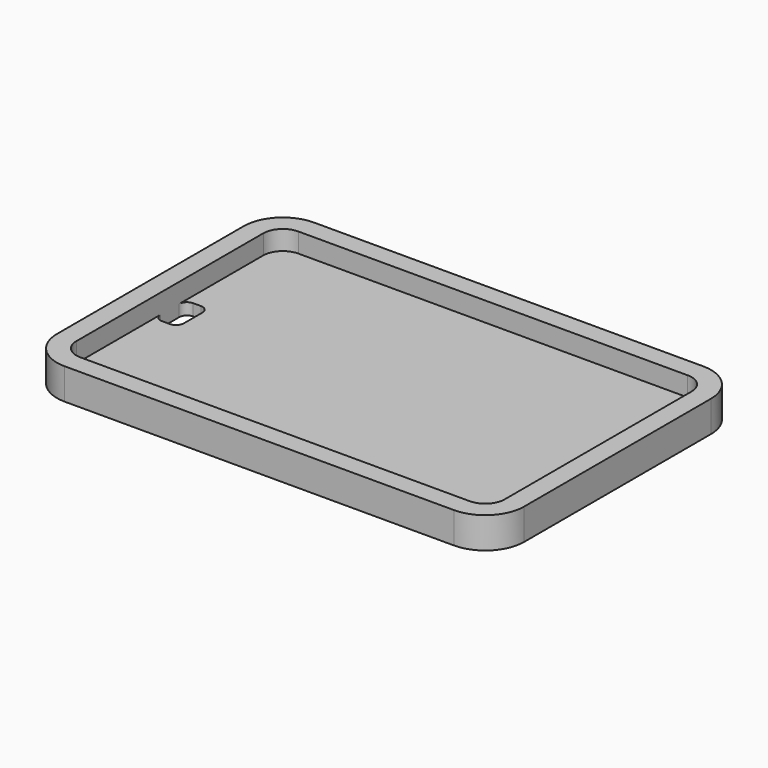
from build123d import *

# Parameters (mm, degrees)
F1_DEPTH = 5.08
F3_DEPTH = 3.175
F5_DEPTH = 25.4


with BuildPart() as f1:
    # F0 (on Top) → F1 (new body)
    with BuildSketch(Plane.XY):
        with BuildLine():
            ThreePointArc((0, 6.35), (1.859872, 1.859872), (6.35, 0))
            Line((6.35, 0), (69.85, 0))
            ThreePointArc((69.85, 0), (74.340128, 1.859872), (76.2, 6.35))
            Line((76.2, 6.35), (76.2, 44.45))
            ThreePointArc((76.2, 44.45), (74.340128, 48.940128), (69.85, 50.8))
            Line((69.85, 50.8), (6.35, 50.8))
            ThreePointArc((6.35, 50.8), (1.859872, 48.940128), (0, 44.45))
            Line((0, 44.45), (0, 6.35))
        make_face()
    extrude(amount=F1_DEPTH)

    # F2 (on face) → F3 (cut)
    with BuildSketch(Plane.XY.offset(5.08)):
        with BuildLine():
            Line((69.85, 47.625), (6.35, 47.625))
            ThreePointArc((6.35, 47.625), (4.104936, 46.695064), (3.175, 44.45))
            Line((3.175, 44.45), (3.175, 6.35))
            ThreePointArc((3.175, 6.35), (4.104936, 4.104936), (6.35, 3.175))
            Line((6.35, 3.175), (69.85, 3.175))
            ThreePointArc((69.85, 3.175), (72.095064, 4.104936), (73.025, 6.35))
            Line((73.025, 6.35), (73.025, 44.45))
            ThreePointArc((73.025, 44.45), (72.095064, 46.695064), (69.85, 47.625))
        make_face()
    extrude(amount=-F3_DEPTH, mode=Mode.SUBTRACT)

    # F4 (on Top) → F5 (cut)
    with BuildSketch(Plane.XY):
        with BuildLine():
            Line((5.708611, 28.575), (4.445, 28.575))
            ThreePointArc((4.445, 28.575), (3.546974, 28.203026), (3.175, 27.305))
            Line((3.175, 27.305), (3.175, 23.495))
            ThreePointArc((3.175, 23.495), (3.546974, 22.596974), (4.445, 22.225))
            Line((4.445, 22.225), (5.708611, 22.225))
            ThreePointArc((5.708611, 22.225), (6.606637, 22.596974), (6.978611, 23.495))
            Line((6.978611, 23.495), (6.978611, 27.305))
            ThreePointArc((6.978611, 27.305), (6.606637, 28.203026), (5.708611, 28.575))
        make_face()
    extrude(amount=F5_DEPTH, mode=Mode.SUBTRACT)


solid = f1.part
